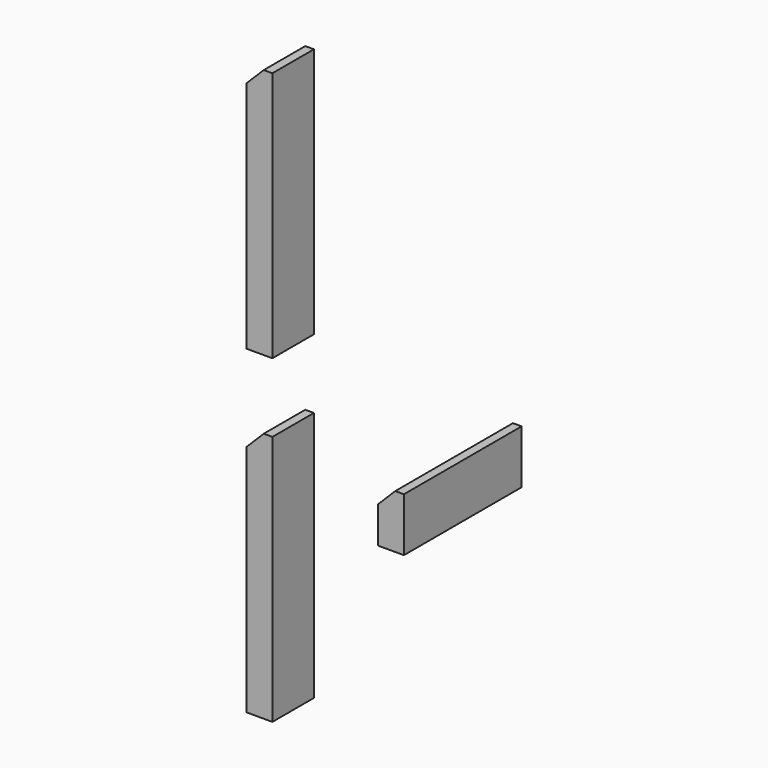
from build123d import *

# Parameters (mm, degrees)
BOX002_W        = 3
BOX002_H        = 17
BOX002_DEPTH    = 6.2
CHAMFER002_SIZE = 2
BOX_W           = 3
BOX_H           = 6
BOX_DEPTH       = 29
CHAMFER001_SIZE = 2
BOX001_W        = 3
BOX001_H        = 6
BOX001_DEPTH    = 29
CHAMFER_SIZE    = 2


with BuildPart() as chamfer002:
    # Box002 → Box002 (new body)
    with BuildSketch(Plane(origin=(8, 11, 23.24), x_dir=(1, 0, 0), z_dir=(0, 0, 1))):
        with Locations((1.5, 8.5)):
            Rectangle(BOX002_W, BOX002_H)
    extrude(amount=BOX002_DEPTH)

    # Chamfer002
    chamfer002_edges = [chamfer002.edges().sort_by_distance(p)[0] for p in [
        (8, 19.5, 29.44),
    ]]
    chamfer(chamfer002_edges, length=CHAMFER002_SIZE)


with BuildPart() as chamfer001:
    # Box → Box (new body)
    with BuildSketch(Plane(origin=(8, -8, 14), x_dir=(1, 0, 0), z_dir=(0, 0, 1))):
        with Locations((1.5, 3)):
            Rectangle(BOX_W, BOX_H)
    extrude(amount=BOX_DEPTH)

    # Chamfer001
    chamfer001_edges = [chamfer001.edges().sort_by_distance(p)[0] for p in [
        (8, -5, 43),
    ]]
    chamfer(chamfer001_edges, length=CHAMFER001_SIZE)


with BuildPart() as fusion:
    # Box001 → Box001 (new body)
    with BuildSketch(Plane(origin=(8, -8, 51), x_dir=(1, 0, 0), z_dir=(0, 0, 1))):
        with Locations((1.5, 3)):
            Rectangle(BOX001_W, BOX001_H)
    extrude(amount=BOX001_DEPTH)

    # Chamfer
    chamfer_edges = [fusion.edges().sort_by_distance(p)[0] for p in [
        (8, -5, 80),
    ]]
    chamfer(chamfer_edges, length=CHAMFER_SIZE)

    # Fusion: union Chamfer002, Chamfer001
    add(chamfer002.part)
    add(chamfer001.part)


solid = fusion.part
